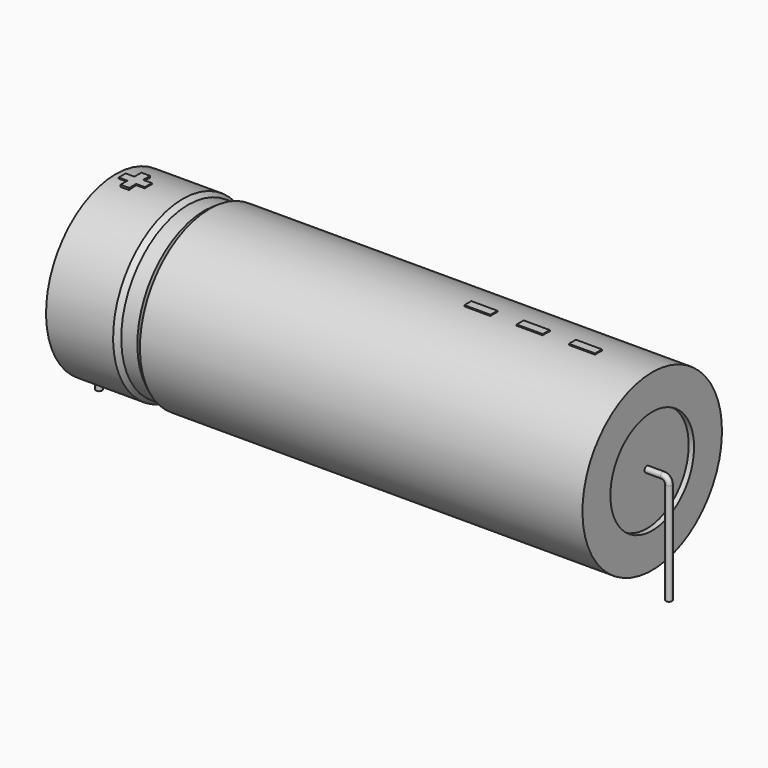
from build123d import *

# Parameters (mm, degrees)
SKETCH_R    = 0.45
SKETCH004_W = 3.9
SKETCH004_H = 1.3
PAD_DEPTH   = 13.13


with BuildPart() as sweep_body:
    # Sweep: sweep along a path in Sketch001
    with BuildLine(Plane.XZ) as sweep_path:
        Line((0, -3), (0, 12.2))
        ThreePointArc((0, 12.2), (0.263606, 12.836399), (0.900007, 13.1))
        Line((0.900007, 13.1), (84.1, 13.1))
        ThreePointArc((84.1, 13.1), (84.736396, 12.836396), (85, 12.2))
        Line((85, 12.2), (85, -3))
    # Sketch → Sweep (sweep)
    with BuildSketch(Plane.XY.offset(-2)):
        Circle(SKETCH_R)
    sweep(path=sweep_path.line)


with BuildPart() as revolution:
    # Sketch002 → Revolution (revolve)
    with BuildSketch(Plane.XZ):
        Polygon((2.5, 26.1), (2.5, 20.9), (82.5, 20.9), (82.5, 26.1), (16.5, 26.1), (15.7, 25.58), (13.3, 25.58), (12.5, 26.1), align=None)
    revolve(axis=Axis((6.97588, 0, 13.1), (1, 0, 0)))


with BuildPart() as revolution001:
    # Sketch003 → Revolution001 (revolve)
    with BuildSketch(Plane.XZ):
        Polygon((3.3, 25.58), (7.3, 25.58), (7.3, 14.4), (77.7, 14.4), (77.7, 25.58), (81.7, 25.58), (81.7, 13.1), (3.3, 13.1), align=None)
    revolve(axis=Axis((6.97588, 0, 13.1), (1, 0, 0)))


with BuildPart() as pad:
    # Sketch004 → Pad (new body)
    with BuildSketch(Plane.XY.offset(13.1)):
        with Locations((72.55, 0)):
            Rectangle(SKETCH004_W, SKETCH004_H)
        with Locations((64.75, 0)):
            Rectangle(SKETCH004_W, SKETCH004_H)
        with Locations((56.95, 0)):
            Rectangle(SKETCH004_W, SKETCH004_H)
        Polygon((4.76, 0.65), (3.46, 0.65), (3.46, -0.65), (4.76, -0.65), (4.76, -1.95), (6.06, -1.95), (6.06, -0.65), (7.36, -0.65), (7.36, 0.65), (6.06, 0.65), (6.06, 1.95), (4.76, 1.95), align=None)
    extrude(amount=PAD_DEPTH)


solid = Compound([sweep_body.part, revolution.part, revolution001.part, pad.part])
